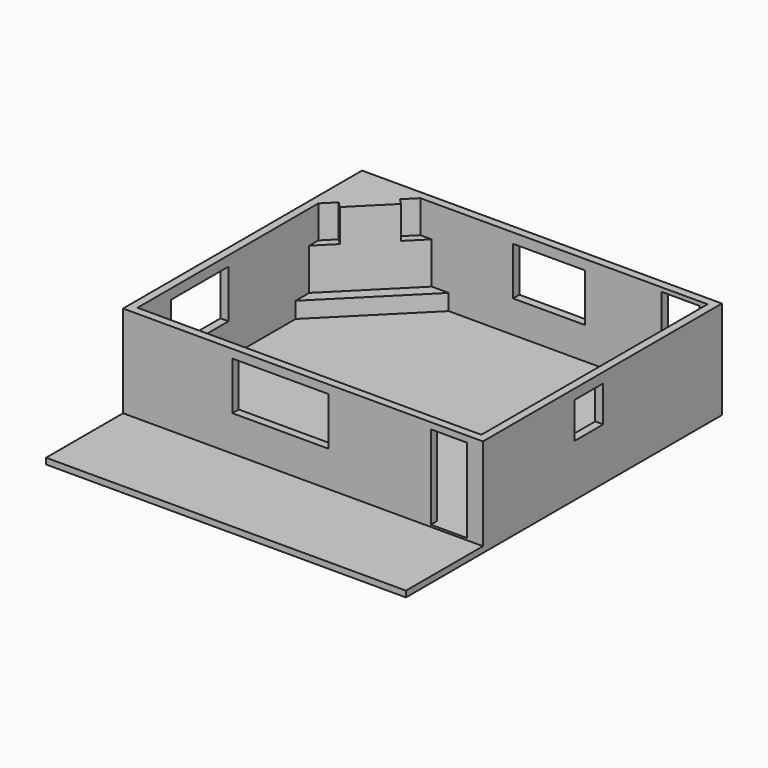
from build123d import *

# Parameters (mm, degrees)
F0_W      = 9118.6
F0_H      = 10007.6
F1_DEPTH  = 203.2
F2_W      = 9118.6
F2_H      = 2438.4
F3_DEPTH  = 50.8
F4_W      = 9118.6
F4_H      = 7569.2
F4_W_2    = 8712.2
F4_H_2    = 7162.8
F5_DEPTH  = 2286
F6_W      = 914.4
F6_H      = 2127.25
F6_W_2    = 2438.4
F6_H_2    = 1219.2
F7_DEPTH  = 203.2
F8_W      = 914.4
F8_H      = 914.4
F9_DEPTH  = 203.2
F10_W     = 1828.8
F10_H     = 1219.2
F11_DEPTH = 203.2
F12_W     = 965.2
F12_H     = 2184.4
F13_DEPTH = 25.4
F14_W     = 1828.8
F14_H     = 1219.2
F15_DEPTH = 203.2
F17_DEPTH = 406.4
F19_DEPTH = 1879.6
F21_DEPTH = 825.5
F23_W     = 965.2
F23_H     = 2184.4
F24_DEPTH = 203.2


with BuildPart() as f1:
    # F0 (on Top) → F1 (new body)
    with BuildSketch(Plane.XY):
        with Locations((-4559.3, 5003.8)):
            Rectangle(F0_W, F0_H)
    extrude(amount=-F1_DEPTH)

    # F2 (on face) → F3 (cut)
    with BuildSketch(Plane.XY):
        with Locations((-4559.3, 1219.2)):
            Rectangle(F2_W, F2_H)
    extrude(amount=-F3_DEPTH, mode=Mode.SUBTRACT)

    # F4 (on face) → F5 (join)
    with BuildSketch(Plane.XY):
        with Locations((-4559.3, 6223)):
            Rectangle(F4_W, F4_H)
        with Locations((-4559.3, 6223)):
            Rectangle(F4_W_2, F4_H_2, mode=Mode.SUBTRACT)
    extrude(amount=F5_DEPTH)

    # F6 (on face) → F7 (cut, through all)
    with BuildSketch(Plane.XZ.offset(-2438.4)):
        with Locations((-863.6, 1063.625)):
            Rectangle(F6_W, F6_H)
        with Locations((-5130.8, 1460.5)):
            Rectangle(F6_W_2, F6_H_2)
    extrude(amount=-F7_DEPTH, mode=Mode.SUBTRACT)

    # F8 (on face) → F9 (cut, through all)
    with BuildSketch(Plane.YZ):
        with Locations((5791.2, 1574.8)):
            Rectangle(F8_W, F8_H)
    extrude(amount=-F9_DEPTH, mode=Mode.SUBTRACT)

    # F10 (on face) → F11 (cut, through all)
    with BuildSketch(Plane(origin=(0, 10007.6, 0), x_dir=(-1, 0, 0), z_dir=(0, 1, 0))):
        with Locations((4216.4, 1422.4)):
            Rectangle(F10_W, F10_H)
    extrude(amount=-F11_DEPTH, mode=Mode.SUBTRACT)

    # F12 (on face) → F13 (cut)
    with BuildSketch(Plane(origin=(0, 10007.6, 0), x_dir=(-1, 0, 0), z_dir=(0, 1, 0))):
        with Locations((889, 1092.2)):
            Rectangle(F12_W, F12_H)
    extrude(amount=-F13_DEPTH, mode=Mode.SUBTRACT)

    # F14 (on face) → F15 (cut, through all)
    with BuildSketch(Plane(origin=(-9118.6, 0, 0), x_dir=(0, -1, 0), z_dir=(-1, 0, 0))):
        with Locations((-4610.1, 1422.4)):
            Rectangle(F14_W, F14_H)
    extrude(amount=-F15_DEPTH, mode=Mode.SUBTRACT)

    # F16 (on face) → F17 (join)
    with BuildSketch(Plane.XY):
        Polygon((-6760.138531, 9804.4), (-8915.4, 9804.4), (-8915.4, 7649.138531), align=None)
    extrude(amount=F17_DEPTH)

    # F18 (on face) → F19 (join, through all)
    with BuildSketch(Plane.XY.offset(406.4)):
        Polygon((-8915.4, 9804.4), (-8915.4, 8080.190825), (-7191.190825, 9804.4), align=None)
    extrude(amount=F19_DEPTH)

    # F20 (on face) → F21 (cut)
    with BuildSketch(Plane.XY.offset(2286)):
        Polygon((-8915.4, 8080.190825), (-8484.347706, 8511.243119), (-8628.031804, 8654.927217), (-8915.4, 8367.559021), align=None)
        Polygon((-7765.927217, 9517.031804), (-7622.243119, 9373.347706), (-7191.190825, 9804.4), (-7478.559021, 9804.4), align=None)
    extrude(amount=-F21_DEPTH, mode=Mode.SUBTRACT)

    # F23 (on face) → F24 (cut, through all)
    with BuildSketch(Plane(origin=(0, 10007.6, 0), x_dir=(-1, 0, 0), z_dir=(0, 1, 0))):
        with Locations((889, 1092.2)):
            Rectangle(F23_W, F23_H)
    extrude(amount=-F24_DEPTH, mode=Mode.SUBTRACT)


solid = f1.part
